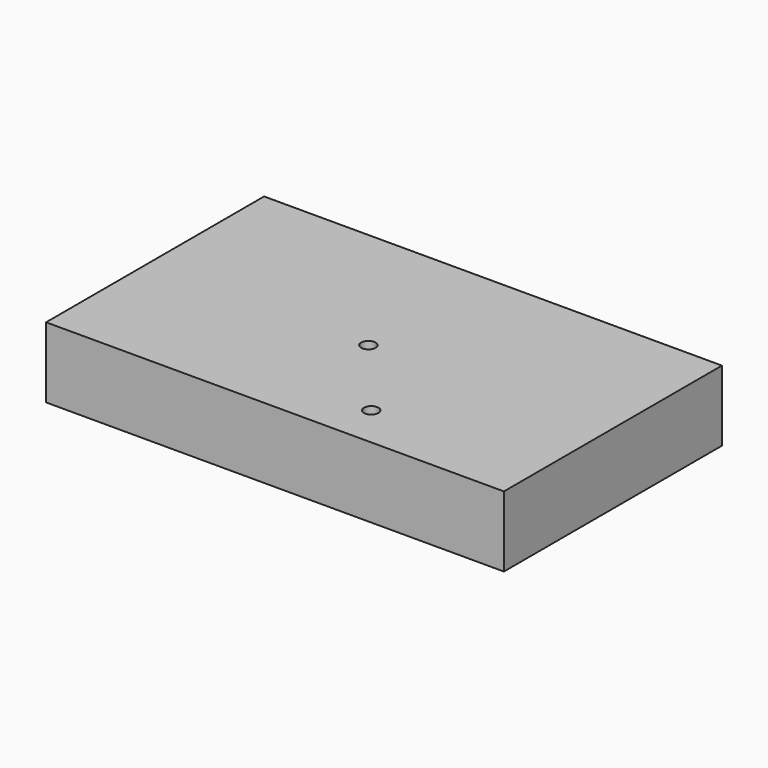
from build123d import *

# Parameters (mm, degrees)
F0_W     = 162.1963754296
F0_H     = 96.5468659997
F1_DEPTH = 25
F3_D     = 5.1054


with BuildPart() as f1:
    # F0 (on Top) → F1 (new body)
    with BuildSketch(Plane.XY):
        with Locations((47.5695841014, -30.9561230242)):
            Rectangle(F0_W, F0_H)
    extrude(amount=F1_DEPTH)

    # F3 (through all)
    with Locations(Plane.XY.offset(25)):
        with Locations((44.6677718163, -34.2295560241), (69.6677718163, -64.2295560241)):
            Hole(F3_D / 2)


solid = f1.part
